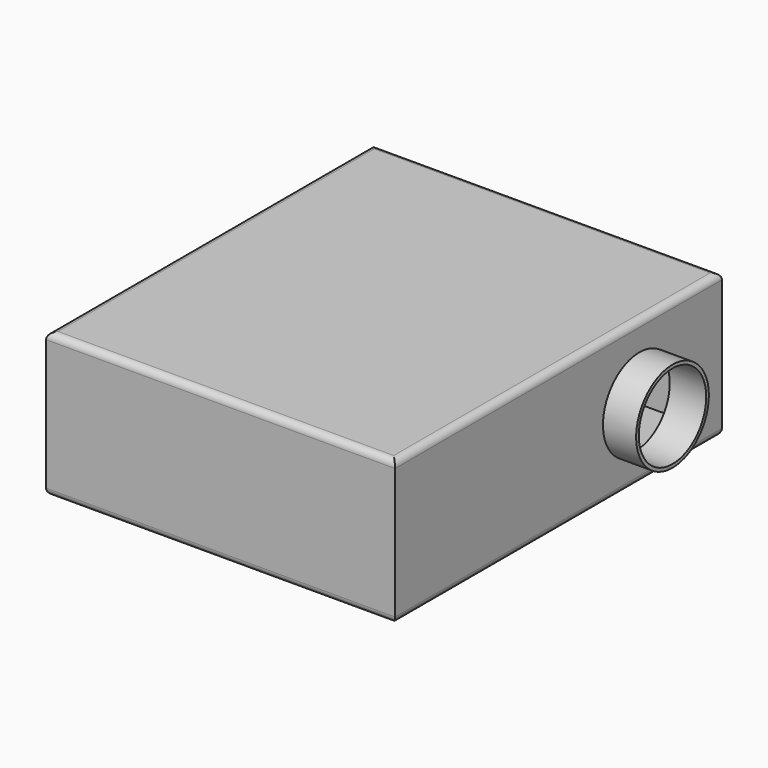
from build123d import *

# Parameters (mm, degrees)
F0_W     = 263
F0_H     = 308
F1_DEPTH = 108.5
F2_R     = 34.2595
F3_DEPTH = 25
F4_T     = -2.5
F5_R     = 5


with BuildPart() as f1:
    # F0 (on Top) → F1 (new body)
    with BuildSketch(Plane.XY):
        Rectangle(F0_W, F0_H)
    extrude(amount=F1_DEPTH)

    # F2 (on face) → F3 (join)
    with BuildSketch(Plane.YZ.offset(131.5)):
        with Locations((76.1949643493, 52.8052560985)):
            Circle(F2_R)
    extrude(amount=F3_DEPTH)

    # F4
    f4_openings = [f1.faces().sort_by_distance(p)[0] for p in [
        (156.5, 76.194964, 52.805256),
    ]]
    offset(amount=F4_T, openings=f4_openings, kind=Kind.INTERSECTION)

    # F5
    f5_edges = [f1.edges().sort_by_distance(p)[0] for p in [
        (0, 154, 108.5),
        (0, -154, 108.5),
        (0, 154, 0),
        (0, -154, 0),
        (131.5, 0, 108.5),
        (131.5, 0, 0),
        (-131.5, 0, 108.5),
        (-131.5, 0, 0),
    ]]
    fillet(f5_edges, radius=F5_R)


solid = f1.part
